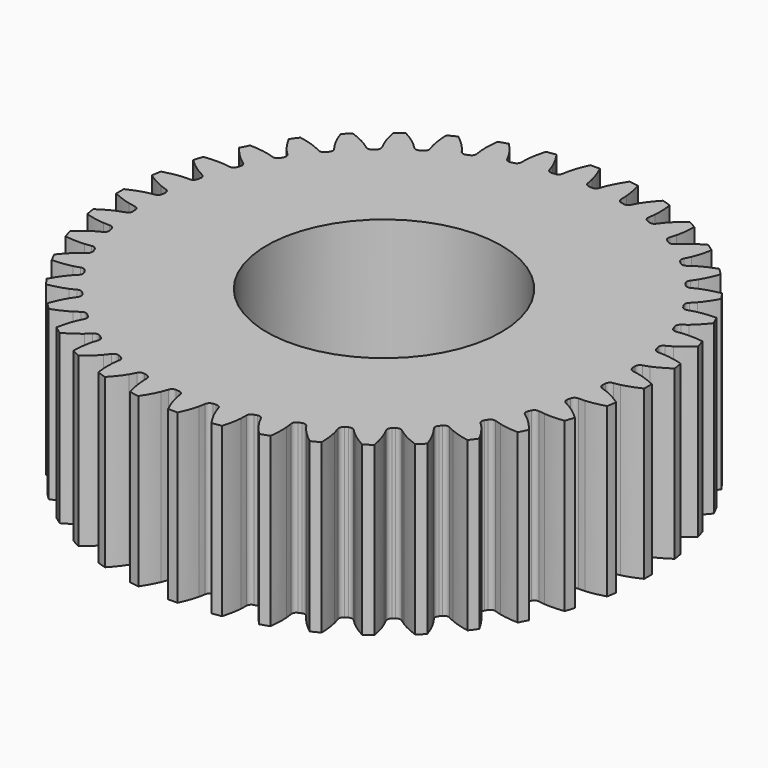
from build123d import *

# Parameters (mm, degrees)
CYLINDER001_R     = 7
CYLINDER001_DEPTH = 10
PAD003_DEPTH      = 10


with BuildPart() as cylinder001:
    # Cylinder001 → Cylinder001 (new body)
    with BuildSketch(Plane.XY):
        Circle(CYLINDER001_R)
    extrude(amount=CYLINDER001_DEPTH)


with BuildPart() as cut002:
    # InvoluteGear002 → Pad003 (new body)
    with BuildSketch(Plane.XY):
        with BuildLine():
            add(Edge.make_bspline(
                [(14.281854, -0.750733), (14.376877, -0.739514), (14.50388, -0.718819), (14.661323, -0.680954)],
                knots=[0, 0, 0, 0, 1, 1, 1, 1], degree=3))
            add(Edge.make_bspline(
                [(14.661323, -0.680954), (14.937858, -0.61437), (15.305187, -0.495667), (15.747806, -0.285087)],
                knots=[0, 0, 0, 0, 1, 1, 1, 1], degree=3))
            ThreePointArc((15.747806, -0.285087), (15.750193, 7.5e-05), (15.747417, 0.285234))
            add(Edge.make_bspline(
                [(15.747417, 0.285234), (15.305187, 0.495667), (14.937858, 0.61437), (14.661323, 0.680954)],
                knots=[0, 0, 0, 0, 1, 1, 1, 1], degree=3))
            add(Edge.make_bspline(
                [(14.661323, 0.680954), (14.50388, 0.718819), (14.376877, 0.739514), (14.281897, 0.750726)],
                knots=[0, 0, 0, 0, 1, 1, 1, 1], degree=3))
            ThreePointArc((14.281897, 0.750726), (14.105779, 0.8357), (14.025881, 1.014179))
            ThreePointArc((14.025881, 1.014179), (14.01915, 1.103331), (14.011852, 1.192438))
            ThreePointArc((14.011852, 1.192438), (14.062835, 1.381199), (14.223462, 1.492684))
            add(Edge.make_bspline(
                [(14.223462, 1.492684), (14.315559, 1.51863), (14.437761, 1.558938), (14.587343, 1.620966)],
                knots=[0, 0, 0, 0, 1, 1, 1, 1], degree=3))
            add(Edge.make_bspline(
                [(14.587343, 1.620966), (14.850056, 1.72999), (15.194294, 1.904694), (15.598521, 2.181922)],
                knots=[0, 0, 0, 0, 1, 1, 1, 1], degree=3))
            ThreePointArc((15.598521, 2.181922), (15.55627, 2.463947), (15.50892, 2.745161))
            add(Edge.make_bspline(
                [(15.50892, 2.745161), (15.039215, 2.883823), (14.657839, 2.943602), (14.374293, 2.966107)],
                knots=[0, 0, 0, 0, 1, 1, 1, 1], degree=3))
            add(Edge.make_bspline(
                [(14.374293, 2.966107), (14.212865, 2.978875), (14.084188, 2.979448), (13.988624, 2.975664)],
                knots=[0, 0, 0, 0, 1, 1, 1, 1], degree=3))
            ThreePointArc((13.988624, 2.975664), (13.801381, 3.032041), (13.694547, 3.195824))
            ThreePointArc((13.694547, 3.195824), (13.673952, 3.282825), (13.652804, 3.369694))
            ThreePointArc((13.652804, 3.369694), (13.673631, 3.564106), (13.81484, 3.699346))
            add(Edge.make_bspline(
                [(13.81484, 3.699346), (13.901745, 3.73938), (14.016137, 3.798308), (14.154173, 3.882972)],
                knots=[0, 0, 0, 0, 1, 1, 1, 1], degree=3))
            add(Edge.make_bspline(
                [(14.154173, 3.882972), (14.396598, 4.031751), (14.709267, 4.258155), (15.06515, 4.595206)],
                knots=[0, 0, 0, 0, 1, 1, 1, 1], degree=3))
            ThreePointArc((15.06515, 4.595206), (14.979301, 4.867149), (14.888542, 5.137493))
            add(Edge.make_bspline(
                [(14.888542, 5.137493), (14.402928, 5.20097), (14.016896, 5.200352), (13.73332, 5.178224)],
                knots=[0, 0, 0, 0, 1, 1, 1, 1], degree=3))
            add(Edge.make_bspline(
                [(13.73332, 5.178224), (13.571882, 5.165583), (13.4447, 5.146018), (13.350905, 5.127332)],
                knots=[0, 0, 0, 0, 1, 1, 1, 1], degree=3))
            ThreePointArc((13.350905, 5.127332), (13.157147, 5.153724), (13.026007, 5.298778))
            ThreePointArc((13.026007, 5.298778), (12.992056, 5.381486), (12.95758, 5.463976))
            ThreePointArc((12.95758, 5.463976), (12.947736, 5.659253), (13.066051, 5.814918))
            add(Edge.make_bspline(
                [(13.066051, 5.814918), (13.145623, 5.868054), (13.249389, 5.944152), (13.372481, 6.049367)],
                knots=[0, 0, 0, 0, 1, 1, 1, 1], degree=3))
            add(Edge.make_bspline(
                [(13.372481, 6.049367), (13.588647, 6.234238), (13.86205, 6.506767), (14.160824, 6.89534)],
                knots=[0, 0, 0, 0, 1, 1, 1, 1], degree=3))
            ThreePointArc((14.160824, 6.89534), (14.033491, 7.150505), (13.901558, 7.403323))
            add(Edge.make_bspline(
                [(13.901558, 7.403323), (13.411993, 7.390052), (13.03081, 7.329053), (12.754188, 7.262836)],
                knots=[0, 0, 0, 0, 1, 1, 1, 1], degree=3))
            add(Edge.make_bspline(
                [(12.754188, 7.262836), (12.596715, 7.225096), (12.474159, 7.185877), (12.384441, 7.152747)],
                knots=[0, 0, 0, 0, 1, 1, 1, 1], degree=3))
            ThreePointArc((12.384441, 7.152747), (12.188941, 7.148504), (12.036724, 7.271257))
            ThreePointArc((12.036724, 7.271257), (11.990252, 7.347636), (11.943296, 7.423718))
            ThreePointArc((11.943296, 7.423718), (11.903026, 7.615051), (11.995533, 7.787307))
            add(Edge.make_bspline(
                [(11.995533, 7.787307), (12.065813, 7.852237), (12.156396, 7.94363), (12.261514, 8.066806)],
                knots=[0, 0, 0, 0, 1, 1, 1, 1], degree=3))
            add(Edge.make_bspline(
                [(12.261514, 8.066806), (12.446098, 8.283217), (12.673502, 8.59516), (12.907812, 9.025688)],
                knots=[0, 0, 0, 0, 1, 1, 1, 1], degree=3))
            ThreePointArc((12.907812, 9.025688), (12.74213, 9.257792), (12.572272, 9.486858))
            add(Edge.make_bspline(
                [(12.572272, 9.486858), (12.09081, 9.397166), (11.723863, 9.277288), (11.461005, 9.168613)],
                knots=[0, 0, 0, 0, 1, 1, 1, 1], degree=3))
            add(Edge.make_bspline(
                [(11.461005, 9.168613), (11.311374, 9.106703), (11.196463, 9.048795), (11.113032, 9.002038)],
                knots=[0, 0, 0, 0, 1, 1, 1, 1], degree=3))
            ThreePointArc((11.113032, 9.002038), (10.920603, 8.967265), (10.751057, 9.064694))
            ThreePointArc((10.751057, 9.064694), (10.693209, 9.132863), (10.634929, 9.200663))
            ThreePointArc((10.634929, 9.200663), (10.565224, 9.38334), (10.629645, 9.567948))
            add(Edge.make_bspline(
                [(10.629645, 9.567948), (10.688902, 9.643072), (10.764073, 9.74751), (10.848628, 9.885614)],
                knots=[0, 0, 0, 0, 1, 1, 1, 1], degree=3))
            add(Edge.make_bspline(
                [(10.848628, 9.885614), (10.997086, 10.128235), (11.172891, 10.471912), (11.336967, 10.933793)],
                knots=[0, 0, 0, 0, 1, 1, 1, 1], degree=3))
            ThreePointArc((11.336967, 10.933793), (11.137015, 11.137121), (10.933415, 11.336796))
            add(Edge.make_bspline(
                [(10.933415, 11.336796), (10.471912, 11.172891), (10.128235, 10.997086), (9.885614, 10.848628)],
                knots=[0, 0, 0, 0, 1, 1, 1, 1], degree=3))
            add(Edge.make_bspline(
                [(9.885614, 10.848628), (9.74751, 10.764073), (9.643072, 10.688902), (9.567983, 10.62967)],
                knots=[0, 0, 0, 0, 1, 1, 1, 1], degree=3))
            ThreePointArc((9.567983, 10.62967), (9.383363, 10.565221), (9.200663, 10.634929))
            ThreePointArc((9.200663, 10.634929), (9.132863, 10.693209), (9.064694, 10.751057))
            ThreePointArc((9.064694, 10.751057), (8.96727, 10.920581), (9.002019, 11.112993))
            add(Edge.make_bspline(
                [(9.002019, 11.112993), (9.048795, 11.196463), (9.106703, 11.311374), (9.168613, 11.461005)],
                knots=[0, 0, 0, 0, 1, 1, 1, 1], degree=3))
            add(Edge.make_bspline(
                [(9.168613, 11.461005), (9.277288, 11.723863), (9.397166, 12.09081), (9.486968, 12.572672)],
                knots=[0, 0, 0, 0, 1, 1, 1, 1], degree=3))
            ThreePointArc((9.486968, 12.572672), (9.25767, 12.742218), (9.025341, 12.907584))
            add(Edge.make_bspline(
                [(9.025341, 12.907584), (8.59516, 12.673502), (8.283217, 12.446098), (8.066806, 12.261514)],
                knots=[0, 0, 0, 0, 1, 1, 1, 1], degree=3))
            add(Edge.make_bspline(
                [(8.066806, 12.261514), (7.94363, 12.156396), (7.852237, 12.065813), (7.787339, 11.995563)],
                knots=[0, 0, 0, 0, 1, 1, 1, 1], degree=3))
            ThreePointArc((7.787339, 11.995563), (7.615073, 11.903027), (7.423718, 11.943296))
            ThreePointArc((7.423718, 11.943296), (7.347636, 11.990252), (7.271257, 12.036724))
            ThreePointArc((7.271257, 12.036724), (7.148513, 12.188921), (7.152734, 12.3844))
            add(Edge.make_bspline(
                [(7.152734, 12.3844), (7.185877, 12.474159), (7.225096, 12.596715), (7.262836, 12.754188)],
                knots=[0, 0, 0, 0, 1, 1, 1, 1], degree=3))
            add(Edge.make_bspline(
                [(7.262836, 12.754188), (7.329053, 13.03081), (7.390052, 13.411993), (7.403369, 13.901971)],
                knots=[0, 0, 0, 0, 1, 1, 1, 1], degree=3))
            ThreePointArc((7.403369, 13.901971), (7.150371, 14.033559), (6.895033, 14.160545))
            add(Edge.make_bspline(
                [(6.895033, 14.160545), (6.506767, 13.86205), (6.234238, 13.588647), (6.049367, 13.372481)],
                knots=[0, 0, 0, 0, 1, 1, 1, 1], degree=3))
            add(Edge.make_bspline(
                [(6.049367, 13.372481), (5.944152, 13.249389), (5.868054, 13.145623), (5.814944, 13.066086)],
                knots=[0, 0, 0, 0, 1, 1, 1, 1], degree=3))
            ThreePointArc((5.814944, 13.066086), (5.659275, 12.947741), (5.463976, 12.95758))
            ThreePointArc((5.463976, 12.95758), (5.381486, 12.992056), (5.298778, 13.026007))
            ThreePointArc((5.298778, 13.026007), (5.153736, 13.157129), (5.127326, 13.350861))
            add(Edge.make_bspline(
                [(5.127326, 13.350861), (5.146018, 13.4447), (5.165583, 13.571882), (5.178224, 13.73332)],
                knots=[0, 0, 0, 0, 1, 1, 1, 1], degree=3))
            add(Edge.make_bspline(
                [(5.178224, 13.73332), (5.200352, 14.016896), (5.20097, 14.402928), (5.137474, 14.888956)],
                knots=[0, 0, 0, 0, 1, 1, 1, 1], degree=3))
            ThreePointArc((5.137474, 14.888956), (4.867006, 14.979347), (4.594946, 15.064826))
            add(Edge.make_bspline(
                [(4.594946, 15.064826), (4.258155, 14.709267), (4.031751, 14.396598), (3.882972, 14.154173)],
                knots=[0, 0, 0, 0, 1, 1, 1, 1], degree=3))
            add(Edge.make_bspline(
                [(3.882972, 14.154173), (3.798308, 14.016137), (3.73938, 13.901745), (3.699366, 13.814879)],
                knots=[0, 0, 0, 0, 1, 1, 1, 1], degree=3))
            ThreePointArc((3.699366, 13.814879), (3.564127, 13.673639), (3.369694, 13.652804))
            ThreePointArc((3.369694, 13.652804), (3.282825, 13.673952), (3.195824, 13.694547))
            ThreePointArc((3.195824, 13.694547), (3.032057, 13.801364), (2.975665, 13.988581))
            add(Edge.make_bspline(
                [(2.975665, 13.988581), (2.979448, 14.084188), (2.978875, 14.212865), (2.966107, 14.374293)],
                knots=[0, 0, 0, 0, 1, 1, 1, 1], degree=3))
            add(Edge.make_bspline(
                [(2.966107, 14.374293), (2.943602, 14.657839), (2.883823, 15.039215), (2.745077, 15.509327)],
                knots=[0, 0, 0, 0, 1, 1, 1, 1], degree=3))
            ThreePointArc((2.745077, 15.509327), (2.463799, 15.556294), (2.181717, 15.598161))
            add(Edge.make_bspline(
                [(2.181717, 15.598161), (1.904694, 15.194294), (1.72999, 14.850056), (1.620966, 14.587343)],
                knots=[0, 0, 0, 0, 1, 1, 1, 1], degree=3))
            add(Edge.make_bspline(
                [(1.620966, 14.587343), (1.558938, 14.437761), (1.51863, 14.315559), (1.492698, 14.223503)],
                knots=[0, 0, 0, 0, 1, 1, 1, 1], degree=3))
            ThreePointArc((1.492698, 14.223503), (1.381219, 14.062846), (1.192438, 14.011852))
            ThreePointArc((1.192438, 14.011852), (1.103331, 14.01915), (1.014179, 14.025881))
            ThreePointArc((1.014179, 14.025881), (0.835718, 14.105765), (0.750733, 14.281854))
            add(Edge.make_bspline(
                [(0.750733, 14.281854), (0.739514, 14.376877), (0.718819, 14.50388), (0.680954, 14.661323)],
                knots=[0, 0, 0, 0, 1, 1, 1, 1], degree=3))
            add(Edge.make_bspline(
                [(0.680954, 14.661323), (0.61437, 14.937858), (0.495667, 15.305187), (0.285087, 15.747806)],
                knots=[0, 0, 0, 0, 1, 1, 1, 1], degree=3))
            ThreePointArc((0.285087, 15.747806), (-7.5e-05, 15.750193), (-0.285234, 15.747417))
            add(Edge.make_bspline(
                [(-0.285234, 15.747417), (-0.495667, 15.305187), (-0.61437, 14.937858), (-0.680954, 14.661323)],
                knots=[0, 0, 0, 0, 1, 1, 1, 1], degree=3))
            add(Edge.make_bspline(
                [(-0.680954, 14.661323), (-0.718819, 14.50388), (-0.739514, 14.376877), (-0.750726, 14.281897)],
                knots=[0, 0, 0, 0, 1, 1, 1, 1], degree=3))
            ThreePointArc((-0.750726, 14.281897), (-0.8357, 14.105779), (-1.014179, 14.025881))
            ThreePointArc((-1.014179, 14.025881), (-1.103331, 14.01915), (-1.192438, 14.011852))
            ThreePointArc((-1.192438, 14.011852), (-1.381199, 14.062835), (-1.492684, 14.223462))
            add(Edge.make_bspline(
                [(-1.492684, 14.223462), (-1.51863, 14.315559), (-1.558938, 14.437761), (-1.620966, 14.587343)],
                knots=[0, 0, 0, 0, 1, 1, 1, 1], degree=3))
            add(Edge.make_bspline(
                [(-1.620966, 14.587343), (-1.72999, 14.850056), (-1.904694, 15.194294), (-2.181922, 15.598521)],
                knots=[0, 0, 0, 0, 1, 1, 1, 1], degree=3))
            ThreePointArc((-2.181922, 15.598521), (-2.463947, 15.55627), (-2.745161, 15.50892))
            add(Edge.make_bspline(
                [(-2.745161, 15.50892), (-2.883823, 15.039215), (-2.943602, 14.657839), (-2.966107, 14.374293)],
                knots=[0, 0, 0, 0, 1, 1, 1, 1], degree=3))
            add(Edge.make_bspline(
                [(-2.966107, 14.374293), (-2.978875, 14.212865), (-2.979448, 14.084188), (-2.975664, 13.988624)],
                knots=[0, 0, 0, 0, 1, 1, 1, 1], degree=3))
            ThreePointArc((-2.975664, 13.988624), (-3.032041, 13.801381), (-3.195824, 13.694547))
            ThreePointArc((-3.195824, 13.694547), (-3.282825, 13.673952), (-3.369694, 13.652804))
            ThreePointArc((-3.369694, 13.652804), (-3.564106, 13.673631), (-3.699346, 13.81484))
            add(Edge.make_bspline(
                [(-3.699346, 13.81484), (-3.73938, 13.901745), (-3.798308, 14.016137), (-3.882972, 14.154173)],
                knots=[0, 0, 0, 0, 1, 1, 1, 1], degree=3))
            add(Edge.make_bspline(
                [(-3.882972, 14.154173), (-4.031751, 14.396598), (-4.258155, 14.709267), (-4.595206, 15.06515)],
                knots=[0, 0, 0, 0, 1, 1, 1, 1], degree=3))
            ThreePointArc((-4.595206, 15.06515), (-4.867149, 14.979301), (-5.137493, 14.888542))
            add(Edge.make_bspline(
                [(-5.137493, 14.888542), (-5.20097, 14.402928), (-5.200352, 14.016896), (-5.178224, 13.73332)],
                knots=[0, 0, 0, 0, 1, 1, 1, 1], degree=3))
            add(Edge.make_bspline(
                [(-5.178224, 13.73332), (-5.165583, 13.571882), (-5.146018, 13.4447), (-5.127332, 13.350905)],
                knots=[0, 0, 0, 0, 1, 1, 1, 1], degree=3))
            ThreePointArc((-5.127332, 13.350905), (-5.153724, 13.157147), (-5.298778, 13.026007))
            ThreePointArc((-5.298778, 13.026007), (-5.381486, 12.992056), (-5.463976, 12.95758))
            ThreePointArc((-5.463976, 12.95758), (-5.659253, 12.947736), (-5.814918, 13.066051))
            add(Edge.make_bspline(
                [(-5.814918, 13.066051), (-5.868054, 13.145623), (-5.944152, 13.249389), (-6.049367, 13.372481)],
                knots=[0, 0, 0, 0, 1, 1, 1, 1], degree=3))
            add(Edge.make_bspline(
                [(-6.049367, 13.372481), (-6.234238, 13.588647), (-6.506767, 13.86205), (-6.89534, 14.160824)],
                knots=[0, 0, 0, 0, 1, 1, 1, 1], degree=3))
            ThreePointArc((-6.89534, 14.160824), (-7.150505, 14.033491), (-7.403323, 13.901558))
            add(Edge.make_bspline(
                [(-7.403323, 13.901558), (-7.390052, 13.411993), (-7.329053, 13.03081), (-7.262836, 12.754188)],
                knots=[0, 0, 0, 0, 1, 1, 1, 1], degree=3))
            add(Edge.make_bspline(
                [(-7.262836, 12.754188), (-7.225096, 12.596715), (-7.185877, 12.474159), (-7.152747, 12.384441)],
                knots=[0, 0, 0, 0, 1, 1, 1, 1], degree=3))
            ThreePointArc((-7.152747, 12.384441), (-7.148504, 12.188941), (-7.271257, 12.036724))
            ThreePointArc((-7.271257, 12.036724), (-7.347636, 11.990252), (-7.423718, 11.943296))
            ThreePointArc((-7.423718, 11.943296), (-7.615051, 11.903026), (-7.787307, 11.995533))
            add(Edge.make_bspline(
                [(-7.787307, 11.995533), (-7.852237, 12.065813), (-7.94363, 12.156396), (-8.066806, 12.261514)],
                knots=[0, 0, 0, 0, 1, 1, 1, 1], degree=3))
            add(Edge.make_bspline(
                [(-8.066806, 12.261514), (-8.283217, 12.446098), (-8.59516, 12.673502), (-9.025688, 12.907812)],
                knots=[0, 0, 0, 0, 1, 1, 1, 1], degree=3))
            ThreePointArc((-9.025688, 12.907812), (-9.257792, 12.74213), (-9.486858, 12.572272))
            add(Edge.make_bspline(
                [(-9.486858, 12.572272), (-9.397166, 12.09081), (-9.277288, 11.723863), (-9.168613, 11.461005)],
                knots=[0, 0, 0, 0, 1, 1, 1, 1], degree=3))
            add(Edge.make_bspline(
                [(-9.168613, 11.461005), (-9.106703, 11.311374), (-9.048795, 11.196463), (-9.002038, 11.113032)],
                knots=[0, 0, 0, 0, 1, 1, 1, 1], degree=3))
            ThreePointArc((-9.002038, 11.113032), (-8.967265, 10.920603), (-9.064694, 10.751057))
            ThreePointArc((-9.064694, 10.751057), (-9.132863, 10.693209), (-9.200663, 10.634929))
            ThreePointArc((-9.200663, 10.634929), (-9.38334, 10.565224), (-9.567948, 10.629645))
            add(Edge.make_bspline(
                [(-9.567948, 10.629645), (-9.643072, 10.688902), (-9.74751, 10.764073), (-9.885614, 10.848628)],
                knots=[0, 0, 0, 0, 1, 1, 1, 1], degree=3))
            add(Edge.make_bspline(
                [(-9.885614, 10.848628), (-10.128235, 10.997086), (-10.471912, 11.172891), (-10.933793, 11.336967)],
                knots=[0, 0, 0, 0, 1, 1, 1, 1], degree=3))
            ThreePointArc((-10.933793, 11.336967), (-11.137121, 11.137015), (-11.336796, 10.933415))
            add(Edge.make_bspline(
                [(-11.336796, 10.933415), (-11.172891, 10.471912), (-10.997086, 10.128235), (-10.848628, 9.885614)],
                knots=[0, 0, 0, 0, 1, 1, 1, 1], degree=3))
            add(Edge.make_bspline(
                [(-10.848628, 9.885614), (-10.764073, 9.74751), (-10.688902, 9.643072), (-10.62967, 9.567983)],
                knots=[0, 0, 0, 0, 1, 1, 1, 1], degree=3))
            ThreePointArc((-10.62967, 9.567983), (-10.565221, 9.383363), (-10.634929, 9.200663))
            ThreePointArc((-10.634929, 9.200663), (-10.693209, 9.132863), (-10.751057, 9.064694))
            ThreePointArc((-10.751057, 9.064694), (-10.920581, 8.96727), (-11.112993, 9.002019))
            add(Edge.make_bspline(
                [(-11.112993, 9.002019), (-11.196463, 9.048795), (-11.311374, 9.106703), (-11.461005, 9.168613)],
                knots=[0, 0, 0, 0, 1, 1, 1, 1], degree=3))
            add(Edge.make_bspline(
                [(-11.461005, 9.168613), (-11.723863, 9.277288), (-12.09081, 9.397166), (-12.572672, 9.486968)],
                knots=[0, 0, 0, 0, 1, 1, 1, 1], degree=3))
            ThreePointArc((-12.572672, 9.486968), (-12.742218, 9.25767), (-12.907584, 9.025341))
            add(Edge.make_bspline(
                [(-12.907584, 9.025341), (-12.673502, 8.59516), (-12.446098, 8.283217), (-12.261514, 8.066806)],
                knots=[0, 0, 0, 0, 1, 1, 1, 1], degree=3))
            add(Edge.make_bspline(
                [(-12.261514, 8.066806), (-12.156396, 7.94363), (-12.065813, 7.852237), (-11.995563, 7.787339)],
                knots=[0, 0, 0, 0, 1, 1, 1, 1], degree=3))
            ThreePointArc((-11.995563, 7.787339), (-11.903027, 7.615073), (-11.943296, 7.423718))
            ThreePointArc((-11.943296, 7.423718), (-11.990252, 7.347636), (-12.036724, 7.271257))
            ThreePointArc((-12.036724, 7.271257), (-12.188921, 7.148513), (-12.3844, 7.152734))
            add(Edge.make_bspline(
                [(-12.3844, 7.152734), (-12.474159, 7.185877), (-12.596715, 7.225096), (-12.754188, 7.262836)],
                knots=[0, 0, 0, 0, 1, 1, 1, 1], degree=3))
            add(Edge.make_bspline(
                [(-12.754188, 7.262836), (-13.03081, 7.329053), (-13.411993, 7.390052), (-13.901971, 7.403369)],
                knots=[0, 0, 0, 0, 1, 1, 1, 1], degree=3))
            ThreePointArc((-13.901971, 7.403369), (-14.033559, 7.150371), (-14.160545, 6.895033))
            add(Edge.make_bspline(
                [(-14.160545, 6.895033), (-13.86205, 6.506767), (-13.588647, 6.234238), (-13.372481, 6.049367)],
                knots=[0, 0, 0, 0, 1, 1, 1, 1], degree=3))
            add(Edge.make_bspline(
                [(-13.372481, 6.049367), (-13.249389, 5.944152), (-13.145623, 5.868054), (-13.066086, 5.814944)],
                knots=[0, 0, 0, 0, 1, 1, 1, 1], degree=3))
            ThreePointArc((-13.066086, 5.814944), (-12.947741, 5.659275), (-12.95758, 5.463976))
            ThreePointArc((-12.95758, 5.463976), (-12.992056, 5.381486), (-13.026007, 5.298778))
            ThreePointArc((-13.026007, 5.298778), (-13.157129, 5.153736), (-13.350861, 5.127326))
            add(Edge.make_bspline(
                [(-13.350861, 5.127326), (-13.4447, 5.146018), (-13.571882, 5.165583), (-13.73332, 5.178224)],
                knots=[0, 0, 0, 0, 1, 1, 1, 1], degree=3))
            add(Edge.make_bspline(
                [(-13.73332, 5.178224), (-14.016896, 5.200352), (-14.402928, 5.20097), (-14.888956, 5.137474)],
                knots=[0, 0, 0, 0, 1, 1, 1, 1], degree=3))
            ThreePointArc((-14.888956, 5.137474), (-14.979347, 4.867006), (-15.064826, 4.594946))
            add(Edge.make_bspline(
                [(-15.064826, 4.594946), (-14.709267, 4.258155), (-14.396598, 4.031751), (-14.154173, 3.882972)],
                knots=[0, 0, 0, 0, 1, 1, 1, 1], degree=3))
            add(Edge.make_bspline(
                [(-14.154173, 3.882972), (-14.016137, 3.798308), (-13.901745, 3.73938), (-13.814879, 3.699366)],
                knots=[0, 0, 0, 0, 1, 1, 1, 1], degree=3))
            ThreePointArc((-13.814879, 3.699366), (-13.673639, 3.564127), (-13.652804, 3.369694))
            ThreePointArc((-13.652804, 3.369694), (-13.673952, 3.282825), (-13.694547, 3.195824))
            ThreePointArc((-13.694547, 3.195824), (-13.801364, 3.032057), (-13.988581, 2.975665))
            add(Edge.make_bspline(
                [(-13.988581, 2.975665), (-14.084188, 2.979448), (-14.212865, 2.978875), (-14.374293, 2.966107)],
                knots=[0, 0, 0, 0, 1, 1, 1, 1], degree=3))
            add(Edge.make_bspline(
                [(-14.374293, 2.966107), (-14.657839, 2.943602), (-15.039215, 2.883823), (-15.509327, 2.745077)],
                knots=[0, 0, 0, 0, 1, 1, 1, 1], degree=3))
            ThreePointArc((-15.509327, 2.745077), (-15.556294, 2.463799), (-15.598161, 2.181717))
            add(Edge.make_bspline(
                [(-15.598161, 2.181717), (-15.194294, 1.904694), (-14.850056, 1.72999), (-14.587343, 1.620966)],
                knots=[0, 0, 0, 0, 1, 1, 1, 1], degree=3))
            add(Edge.make_bspline(
                [(-14.587343, 1.620966), (-14.437761, 1.558938), (-14.315559, 1.51863), (-14.223503, 1.492698)],
                knots=[0, 0, 0, 0, 1, 1, 1, 1], degree=3))
            ThreePointArc((-14.223503, 1.492698), (-14.062846, 1.381219), (-14.011852, 1.192438))
            ThreePointArc((-14.011852, 1.192438), (-14.01915, 1.103331), (-14.025881, 1.014179))
            ThreePointArc((-14.025881, 1.014179), (-14.105765, 0.835718), (-14.281854, 0.750733))
            add(Edge.make_bspline(
                [(-14.281854, 0.750733), (-14.376877, 0.739514), (-14.50388, 0.718819), (-14.661323, 0.680954)],
                knots=[0, 0, 0, 0, 1, 1, 1, 1], degree=3))
            add(Edge.make_bspline(
                [(-14.661323, 0.680954), (-14.937858, 0.61437), (-15.305187, 0.495667), (-15.747806, 0.285087)],
                knots=[0, 0, 0, 0, 1, 1, 1, 1], degree=3))
            ThreePointArc((-15.747806, 0.285087), (-15.750193, -7.5e-05), (-15.747417, -0.285234))
            add(Edge.make_bspline(
                [(-15.747417, -0.285234), (-15.305187, -0.495667), (-14.937858, -0.61437), (-14.661323, -0.680954)],
                knots=[0, 0, 0, 0, 1, 1, 1, 1], degree=3))
            add(Edge.make_bspline(
                [(-14.661323, -0.680954), (-14.50388, -0.718819), (-14.376877, -0.739514), (-14.281897, -0.750726)],
                knots=[0, 0, 0, 0, 1, 1, 1, 1], degree=3))
            ThreePointArc((-14.281897, -0.750726), (-14.105779, -0.8357), (-14.025881, -1.014179))
            ThreePointArc((-14.025881, -1.014179), (-14.01915, -1.103331), (-14.011852, -1.192438))
            ThreePointArc((-14.011852, -1.192438), (-14.062835, -1.381199), (-14.223462, -1.492684))
            add(Edge.make_bspline(
                [(-14.223462, -1.492684), (-14.315559, -1.51863), (-14.437761, -1.558938), (-14.587343, -1.620966)],
                knots=[0, 0, 0, 0, 1, 1, 1, 1], degree=3))
            add(Edge.make_bspline(
                [(-14.587343, -1.620966), (-14.850056, -1.72999), (-15.194294, -1.904694), (-15.598521, -2.181922)],
                knots=[0, 0, 0, 0, 1, 1, 1, 1], degree=3))
            ThreePointArc((-15.598521, -2.181922), (-15.55627, -2.463947), (-15.50892, -2.745161))
            add(Edge.make_bspline(
                [(-15.50892, -2.745161), (-15.039215, -2.883823), (-14.657839, -2.943602), (-14.374293, -2.966107)],
                knots=[0, 0, 0, 0, 1, 1, 1, 1], degree=3))
            add(Edge.make_bspline(
                [(-14.374293, -2.966107), (-14.212865, -2.978875), (-14.084188, -2.979448), (-13.988624, -2.975664)],
                knots=[0, 0, 0, 0, 1, 1, 1, 1], degree=3))
            ThreePointArc((-13.988624, -2.975664), (-13.801381, -3.032041), (-13.694547, -3.195824))
            ThreePointArc((-13.694547, -3.195824), (-13.673952, -3.282825), (-13.652804, -3.369694))
            ThreePointArc((-13.652804, -3.369694), (-13.673631, -3.564106), (-13.81484, -3.699346))
            add(Edge.make_bspline(
                [(-13.81484, -3.699346), (-13.901745, -3.73938), (-14.016137, -3.798308), (-14.154173, -3.882972)],
                knots=[0, 0, 0, 0, 1, 1, 1, 1], degree=3))
            add(Edge.make_bspline(
                [(-14.154173, -3.882972), (-14.396598, -4.031751), (-14.709267, -4.258155), (-15.06515, -4.595206)],
                knots=[0, 0, 0, 0, 1, 1, 1, 1], degree=3))
            ThreePointArc((-15.06515, -4.595206), (-14.979301, -4.867149), (-14.888542, -5.137493))
            add(Edge.make_bspline(
                [(-14.888542, -5.137493), (-14.402928, -5.20097), (-14.016896, -5.200352), (-13.73332, -5.178224)],
                knots=[0, 0, 0, 0, 1, 1, 1, 1], degree=3))
            add(Edge.make_bspline(
                [(-13.73332, -5.178224), (-13.571882, -5.165583), (-13.4447, -5.146018), (-13.350905, -5.127332)],
                knots=[0, 0, 0, 0, 1, 1, 1, 1], degree=3))
            ThreePointArc((-13.350905, -5.127332), (-13.157147, -5.153724), (-13.026007, -5.298778))
            ThreePointArc((-13.026007, -5.298778), (-12.992056, -5.381486), (-12.95758, -5.463976))
            ThreePointArc((-12.95758, -5.463976), (-12.947736, -5.659253), (-13.066051, -5.814918))
            add(Edge.make_bspline(
                [(-13.066051, -5.814918), (-13.145623, -5.868054), (-13.249389, -5.944152), (-13.372481, -6.049367)],
                knots=[0, 0, 0, 0, 1, 1, 1, 1], degree=3))
            add(Edge.make_bspline(
                [(-13.372481, -6.049367), (-13.588647, -6.234238), (-13.86205, -6.506767), (-14.160824, -6.89534)],
                knots=[0, 0, 0, 0, 1, 1, 1, 1], degree=3))
            ThreePointArc((-14.160824, -6.89534), (-14.033491, -7.150505), (-13.901558, -7.403323))
            add(Edge.make_bspline(
                [(-13.901558, -7.403323), (-13.411993, -7.390052), (-13.03081, -7.329053), (-12.754188, -7.262836)],
                knots=[0, 0, 0, 0, 1, 1, 1, 1], degree=3))
            add(Edge.make_bspline(
                [(-12.754188, -7.262836), (-12.596715, -7.225096), (-12.474159, -7.185877), (-12.384441, -7.152747)],
                knots=[0, 0, 0, 0, 1, 1, 1, 1], degree=3))
            ThreePointArc((-12.384441, -7.152747), (-12.188941, -7.148504), (-12.036724, -7.271257))
            ThreePointArc((-12.036724, -7.271257), (-11.990252, -7.347636), (-11.943296, -7.423718))
            ThreePointArc((-11.943296, -7.423718), (-11.903026, -7.615051), (-11.995533, -7.787307))
            add(Edge.make_bspline(
                [(-11.995533, -7.787307), (-12.065813, -7.852237), (-12.156396, -7.94363), (-12.261514, -8.066806)],
                knots=[0, 0, 0, 0, 1, 1, 1, 1], degree=3))
            add(Edge.make_bspline(
                [(-12.261514, -8.066806), (-12.446098, -8.283217), (-12.673502, -8.59516), (-12.907812, -9.025688)],
                knots=[0, 0, 0, 0, 1, 1, 1, 1], degree=3))
            ThreePointArc((-12.907812, -9.025688), (-12.74213, -9.257792), (-12.572272, -9.486858))
            add(Edge.make_bspline(
                [(-12.572272, -9.486858), (-12.09081, -9.397166), (-11.723863, -9.277288), (-11.461005, -9.168613)],
                knots=[0, 0, 0, 0, 1, 1, 1, 1], degree=3))
            add(Edge.make_bspline(
                [(-11.461005, -9.168613), (-11.311374, -9.106703), (-11.196463, -9.048795), (-11.113032, -9.002038)],
                knots=[0, 0, 0, 0, 1, 1, 1, 1], degree=3))
            ThreePointArc((-11.113032, -9.002038), (-10.920603, -8.967265), (-10.751057, -9.064694))
            ThreePointArc((-10.751057, -9.064694), (-10.693209, -9.132863), (-10.634929, -9.200663))
            ThreePointArc((-10.634929, -9.200663), (-10.565224, -9.38334), (-10.629645, -9.567948))
            add(Edge.make_bspline(
                [(-10.629645, -9.567948), (-10.688902, -9.643072), (-10.764073, -9.74751), (-10.848628, -9.885614)],
                knots=[0, 0, 0, 0, 1, 1, 1, 1], degree=3))
            add(Edge.make_bspline(
                [(-10.848628, -9.885614), (-10.997086, -10.128235), (-11.172891, -10.471912), (-11.336967, -10.933793)],
                knots=[0, 0, 0, 0, 1, 1, 1, 1], degree=3))
            ThreePointArc((-11.336967, -10.933793), (-11.137015, -11.137121), (-10.933415, -11.336796))
            add(Edge.make_bspline(
                [(-10.933415, -11.336796), (-10.471912, -11.172891), (-10.128235, -10.997086), (-9.885614, -10.848628)],
                knots=[0, 0, 0, 0, 1, 1, 1, 1], degree=3))
            add(Edge.make_bspline(
                [(-9.885614, -10.848628), (-9.74751, -10.764073), (-9.643072, -10.688902), (-9.567983, -10.62967)],
                knots=[0, 0, 0, 0, 1, 1, 1, 1], degree=3))
            ThreePointArc((-9.567983, -10.62967), (-9.383363, -10.565221), (-9.200663, -10.634929))
            ThreePointArc((-9.200663, -10.634929), (-9.132863, -10.693209), (-9.064694, -10.751057))
            ThreePointArc((-9.064694, -10.751057), (-8.96727, -10.920581), (-9.002019, -11.112993))
            add(Edge.make_bspline(
                [(-9.002019, -11.112993), (-9.048795, -11.196463), (-9.106703, -11.311374), (-9.168613, -11.461005)],
                knots=[0, 0, 0, 0, 1, 1, 1, 1], degree=3))
            add(Edge.make_bspline(
                [(-9.168613, -11.461005), (-9.277288, -11.723863), (-9.397166, -12.09081), (-9.486968, -12.572672)],
                knots=[0, 0, 0, 0, 1, 1, 1, 1], degree=3))
            ThreePointArc((-9.486968, -12.572672), (-9.25767, -12.742218), (-9.025341, -12.907584))
            add(Edge.make_bspline(
                [(-9.025341, -12.907584), (-8.59516, -12.673502), (-8.283217, -12.446098), (-8.066806, -12.261514)],
                knots=[0, 0, 0, 0, 1, 1, 1, 1], degree=3))
            add(Edge.make_bspline(
                [(-8.066806, -12.261514), (-7.94363, -12.156396), (-7.852237, -12.065813), (-7.787339, -11.995563)],
                knots=[0, 0, 0, 0, 1, 1, 1, 1], degree=3))
            ThreePointArc((-7.787339, -11.995563), (-7.615073, -11.903027), (-7.423718, -11.943296))
            ThreePointArc((-7.423718, -11.943296), (-7.347636, -11.990252), (-7.271257, -12.036724))
            ThreePointArc((-7.271257, -12.036724), (-7.148513, -12.188921), (-7.152734, -12.3844))
            add(Edge.make_bspline(
                [(-7.152734, -12.3844), (-7.185877, -12.474159), (-7.225096, -12.596715), (-7.262836, -12.754188)],
                knots=[0, 0, 0, 0, 1, 1, 1, 1], degree=3))
            add(Edge.make_bspline(
                [(-7.262836, -12.754188), (-7.329053, -13.03081), (-7.390052, -13.411993), (-7.403369, -13.901971)],
                knots=[0, 0, 0, 0, 1, 1, 1, 1], degree=3))
            ThreePointArc((-7.403369, -13.901971), (-7.150371, -14.033559), (-6.895033, -14.160545))
            add(Edge.make_bspline(
                [(-6.895033, -14.160545), (-6.506767, -13.86205), (-6.234238, -13.588647), (-6.049367, -13.372481)],
                knots=[0, 0, 0, 0, 1, 1, 1, 1], degree=3))
            add(Edge.make_bspline(
                [(-6.049367, -13.372481), (-5.944152, -13.249389), (-5.868054, -13.145623), (-5.814944, -13.066086)],
                knots=[0, 0, 0, 0, 1, 1, 1, 1], degree=3))
            ThreePointArc((-5.814944, -13.066086), (-5.659275, -12.947741), (-5.463976, -12.95758))
            ThreePointArc((-5.463976, -12.95758), (-5.381486, -12.992056), (-5.298778, -13.026007))
            ThreePointArc((-5.298778, -13.026007), (-5.153736, -13.157129), (-5.127326, -13.350861))
            add(Edge.make_bspline(
                [(-5.127326, -13.350861), (-5.146018, -13.4447), (-5.165583, -13.571882), (-5.178224, -13.73332)],
                knots=[0, 0, 0, 0, 1, 1, 1, 1], degree=3))
            add(Edge.make_bspline(
                [(-5.178224, -13.73332), (-5.200352, -14.016896), (-5.20097, -14.402928), (-5.137474, -14.888956)],
                knots=[0, 0, 0, 0, 1, 1, 1, 1], degree=3))
            ThreePointArc((-5.137474, -14.888956), (-4.867006, -14.979347), (-4.594946, -15.064826))
            add(Edge.make_bspline(
                [(-4.594946, -15.064826), (-4.258155, -14.709267), (-4.031751, -14.396598), (-3.882972, -14.154173)],
                knots=[0, 0, 0, 0, 1, 1, 1, 1], degree=3))
            add(Edge.make_bspline(
                [(-3.882972, -14.154173), (-3.798308, -14.016137), (-3.73938, -13.901745), (-3.699366, -13.814879)],
                knots=[0, 0, 0, 0, 1, 1, 1, 1], degree=3))
            ThreePointArc((-3.699366, -13.814879), (-3.564127, -13.673639), (-3.369694, -13.652804))
            ThreePointArc((-3.369694, -13.652804), (-3.282825, -13.673952), (-3.195824, -13.694547))
            ThreePointArc((-3.195824, -13.694547), (-3.032057, -13.801364), (-2.975665, -13.988581))
            add(Edge.make_bspline(
                [(-2.975665, -13.988581), (-2.979448, -14.084188), (-2.978875, -14.212865), (-2.966107, -14.374293)],
                knots=[0, 0, 0, 0, 1, 1, 1, 1], degree=3))
            add(Edge.make_bspline(
                [(-2.966107, -14.374293), (-2.943602, -14.657839), (-2.883823, -15.039215), (-2.745077, -15.509327)],
                knots=[0, 0, 0, 0, 1, 1, 1, 1], degree=3))
            ThreePointArc((-2.745077, -15.509327), (-2.463799, -15.556294), (-2.181717, -15.598161))
            add(Edge.make_bspline(
                [(-2.181717, -15.598161), (-1.904694, -15.194294), (-1.72999, -14.850056), (-1.620966, -14.587343)],
                knots=[0, 0, 0, 0, 1, 1, 1, 1], degree=3))
            add(Edge.make_bspline(
                [(-1.620966, -14.587343), (-1.558938, -14.437761), (-1.51863, -14.315559), (-1.492698, -14.223503)],
                knots=[0, 0, 0, 0, 1, 1, 1, 1], degree=3))
            ThreePointArc((-1.492698, -14.223503), (-1.381219, -14.062846), (-1.192438, -14.011852))
            ThreePointArc((-1.192438, -14.011852), (-1.103331, -14.01915), (-1.014179, -14.025881))
            ThreePointArc((-1.014179, -14.025881), (-0.835718, -14.105765), (-0.750733, -14.281854))
            add(Edge.make_bspline(
                [(-0.750733, -14.281854), (-0.739514, -14.376877), (-0.718819, -14.50388), (-0.680954, -14.661323)],
                knots=[0, 0, 0, 0, 1, 1, 1, 1], degree=3))
            add(Edge.make_bspline(
                [(-0.680954, -14.661323), (-0.61437, -14.937858), (-0.495667, -15.305187), (-0.285087, -15.747806)],
                knots=[0, 0, 0, 0, 1, 1, 1, 1], degree=3))
            ThreePointArc((-0.285087, -15.747806), (7.5e-05, -15.750193), (0.285234, -15.747417))
            add(Edge.make_bspline(
                [(0.285234, -15.747417), (0.495667, -15.305187), (0.61437, -14.937858), (0.680954, -14.661323)],
                knots=[0, 0, 0, 0, 1, 1, 1, 1], degree=3))
            add(Edge.make_bspline(
                [(0.680954, -14.661323), (0.718819, -14.50388), (0.739514, -14.376877), (0.750726, -14.281897)],
                knots=[0, 0, 0, 0, 1, 1, 1, 1], degree=3))
            ThreePointArc((0.750726, -14.281897), (0.8357, -14.105779), (1.014179, -14.025881))
            ThreePointArc((1.014179, -14.025881), (1.103331, -14.01915), (1.192438, -14.011852))
            ThreePointArc((1.192438, -14.011852), (1.381199, -14.062835), (1.492684, -14.223462))
            add(Edge.make_bspline(
                [(1.492684, -14.223462), (1.51863, -14.315559), (1.558938, -14.437761), (1.620966, -14.587343)],
                knots=[0, 0, 0, 0, 1, 1, 1, 1], degree=3))
            add(Edge.make_bspline(
                [(1.620966, -14.587343), (1.72999, -14.850056), (1.904694, -15.194294), (2.181922, -15.598521)],
                knots=[0, 0, 0, 0, 1, 1, 1, 1], degree=3))
            ThreePointArc((2.181922, -15.598521), (2.463947, -15.55627), (2.745161, -15.50892))
            add(Edge.make_bspline(
                [(2.745161, -15.50892), (2.883823, -15.039215), (2.943602, -14.657839), (2.966107, -14.374293)],
                knots=[0, 0, 0, 0, 1, 1, 1, 1], degree=3))
            add(Edge.make_bspline(
                [(2.966107, -14.374293), (2.978875, -14.212865), (2.979448, -14.084188), (2.975664, -13.988624)],
                knots=[0, 0, 0, 0, 1, 1, 1, 1], degree=3))
            ThreePointArc((2.975664, -13.988624), (3.032041, -13.801381), (3.195824, -13.694547))
            ThreePointArc((3.195824, -13.694547), (3.282825, -13.673952), (3.369694, -13.652804))
            ThreePointArc((3.369694, -13.652804), (3.564106, -13.673631), (3.699346, -13.81484))
            add(Edge.make_bspline(
                [(3.699346, -13.81484), (3.73938, -13.901745), (3.798308, -14.016137), (3.882972, -14.154173)],
                knots=[0, 0, 0, 0, 1, 1, 1, 1], degree=3))
            add(Edge.make_bspline(
                [(3.882972, -14.154173), (4.031751, -14.396598), (4.258155, -14.709267), (4.595206, -15.06515)],
                knots=[0, 0, 0, 0, 1, 1, 1, 1], degree=3))
            ThreePointArc((4.595206, -15.06515), (4.867149, -14.979301), (5.137493, -14.888542))
            add(Edge.make_bspline(
                [(5.137493, -14.888542), (5.20097, -14.402928), (5.200352, -14.016896), (5.178224, -13.73332)],
                knots=[0, 0, 0, 0, 1, 1, 1, 1], degree=3))
            add(Edge.make_bspline(
                [(5.178224, -13.73332), (5.165583, -13.571882), (5.146018, -13.4447), (5.127332, -13.350905)],
                knots=[0, 0, 0, 0, 1, 1, 1, 1], degree=3))
            ThreePointArc((5.127332, -13.350905), (5.153724, -13.157147), (5.298778, -13.026007))
            ThreePointArc((5.298778, -13.026007), (5.381486, -12.992056), (5.463976, -12.95758))
            ThreePointArc((5.463976, -12.95758), (5.659253, -12.947736), (5.814918, -13.066051))
            add(Edge.make_bspline(
                [(5.814918, -13.066051), (5.868054, -13.145623), (5.944152, -13.249389), (6.049367, -13.372481)],
                knots=[0, 0, 0, 0, 1, 1, 1, 1], degree=3))
            add(Edge.make_bspline(
                [(6.049367, -13.372481), (6.234238, -13.588647), (6.506767, -13.86205), (6.89534, -14.160824)],
                knots=[0, 0, 0, 0, 1, 1, 1, 1], degree=3))
            ThreePointArc((6.89534, -14.160824), (7.150505, -14.033491), (7.403323, -13.901558))
            add(Edge.make_bspline(
                [(7.403323, -13.901558), (7.390052, -13.411993), (7.329053, -13.03081), (7.262836, -12.754188)],
                knots=[0, 0, 0, 0, 1, 1, 1, 1], degree=3))
            add(Edge.make_bspline(
                [(7.262836, -12.754188), (7.225096, -12.596715), (7.185877, -12.474159), (7.152747, -12.384441)],
                knots=[0, 0, 0, 0, 1, 1, 1, 1], degree=3))
            ThreePointArc((7.152747, -12.384441), (7.148504, -12.188941), (7.271257, -12.036724))
            ThreePointArc((7.271257, -12.036724), (7.347636, -11.990252), (7.423718, -11.943296))
            ThreePointArc((7.423718, -11.943296), (7.615051, -11.903026), (7.787307, -11.995533))
            add(Edge.make_bspline(
                [(7.787307, -11.995533), (7.852237, -12.065813), (7.94363, -12.156396), (8.066806, -12.261514)],
                knots=[0, 0, 0, 0, 1, 1, 1, 1], degree=3))
            add(Edge.make_bspline(
                [(8.066806, -12.261514), (8.283217, -12.446098), (8.59516, -12.673502), (9.025688, -12.907812)],
                knots=[0, 0, 0, 0, 1, 1, 1, 1], degree=3))
            ThreePointArc((9.025688, -12.907812), (9.257792, -12.74213), (9.486858, -12.572272))
            add(Edge.make_bspline(
                [(9.486858, -12.572272), (9.397166, -12.09081), (9.277288, -11.723863), (9.168613, -11.461005)],
                knots=[0, 0, 0, 0, 1, 1, 1, 1], degree=3))
            add(Edge.make_bspline(
                [(9.168613, -11.461005), (9.106703, -11.311374), (9.048795, -11.196463), (9.002038, -11.113032)],
                knots=[0, 0, 0, 0, 1, 1, 1, 1], degree=3))
            ThreePointArc((9.002038, -11.113032), (8.967265, -10.920603), (9.064694, -10.751057))
            ThreePointArc((9.064694, -10.751057), (9.132863, -10.693209), (9.200663, -10.634929))
            ThreePointArc((9.200663, -10.634929), (9.38334, -10.565224), (9.567948, -10.629645))
            add(Edge.make_bspline(
                [(9.567948, -10.629645), (9.643072, -10.688902), (9.74751, -10.764073), (9.885614, -10.848628)],
                knots=[0, 0, 0, 0, 1, 1, 1, 1], degree=3))
            add(Edge.make_bspline(
                [(9.885614, -10.848628), (10.128235, -10.997086), (10.471912, -11.172891), (10.933793, -11.336967)],
                knots=[0, 0, 0, 0, 1, 1, 1, 1], degree=3))
            ThreePointArc((10.933793, -11.336967), (11.137121, -11.137015), (11.336796, -10.933415))
            add(Edge.make_bspline(
                [(11.336796, -10.933415), (11.172891, -10.471912), (10.997086, -10.128235), (10.848628, -9.885614)],
                knots=[0, 0, 0, 0, 1, 1, 1, 1], degree=3))
            add(Edge.make_bspline(
                [(10.848628, -9.885614), (10.764073, -9.74751), (10.688902, -9.643072), (10.62967, -9.567983)],
                knots=[0, 0, 0, 0, 1, 1, 1, 1], degree=3))
            ThreePointArc((10.62967, -9.567983), (10.565221, -9.383363), (10.634929, -9.200663))
            ThreePointArc((10.634929, -9.200663), (10.693209, -9.132863), (10.751057, -9.064694))
            ThreePointArc((10.751057, -9.064694), (10.920581, -8.96727), (11.112993, -9.002019))
            add(Edge.make_bspline(
                [(11.112993, -9.002019), (11.196463, -9.048795), (11.311374, -9.106703), (11.461005, -9.168613)],
                knots=[0, 0, 0, 0, 1, 1, 1, 1], degree=3))
            add(Edge.make_bspline(
                [(11.461005, -9.168613), (11.723863, -9.277288), (12.09081, -9.397166), (12.572672, -9.486968)],
                knots=[0, 0, 0, 0, 1, 1, 1, 1], degree=3))
            ThreePointArc((12.572672, -9.486968), (12.742218, -9.25767), (12.907584, -9.025341))
            add(Edge.make_bspline(
                [(12.907584, -9.025341), (12.673502, -8.59516), (12.446098, -8.283217), (12.261514, -8.066806)],
                knots=[0, 0, 0, 0, 1, 1, 1, 1], degree=3))
            add(Edge.make_bspline(
                [(12.261514, -8.066806), (12.156396, -7.94363), (12.065813, -7.852237), (11.995563, -7.787339)],
                knots=[0, 0, 0, 0, 1, 1, 1, 1], degree=3))
            ThreePointArc((11.995563, -7.787339), (11.903027, -7.615073), (11.943296, -7.423718))
            ThreePointArc((11.943296, -7.423718), (11.990252, -7.347636), (12.036724, -7.271257))
            ThreePointArc((12.036724, -7.271257), (12.188921, -7.148513), (12.3844, -7.152734))
            add(Edge.make_bspline(
                [(12.3844, -7.152734), (12.474159, -7.185877), (12.596715, -7.225096), (12.754188, -7.262836)],
                knots=[0, 0, 0, 0, 1, 1, 1, 1], degree=3))
            add(Edge.make_bspline(
                [(12.754188, -7.262836), (13.03081, -7.329053), (13.411993, -7.390052), (13.901971, -7.403369)],
                knots=[0, 0, 0, 0, 1, 1, 1, 1], degree=3))
            ThreePointArc((13.901971, -7.403369), (14.033559, -7.150371), (14.160545, -6.895033))
            add(Edge.make_bspline(
                [(14.160545, -6.895033), (13.86205, -6.506767), (13.588647, -6.234238), (13.372481, -6.049367)],
                knots=[0, 0, 0, 0, 1, 1, 1, 1], degree=3))
            add(Edge.make_bspline(
                [(13.372481, -6.049367), (13.249389, -5.944152), (13.145623, -5.868054), (13.066086, -5.814944)],
                knots=[0, 0, 0, 0, 1, 1, 1, 1], degree=3))
            ThreePointArc((13.066086, -5.814944), (12.947741, -5.659275), (12.95758, -5.463976))
            ThreePointArc((12.95758, -5.463976), (12.992056, -5.381486), (13.026007, -5.298778))
            ThreePointArc((13.026007, -5.298778), (13.157129, -5.153736), (13.350861, -5.127326))
            add(Edge.make_bspline(
                [(13.350861, -5.127326), (13.4447, -5.146018), (13.571882, -5.165583), (13.73332, -5.178224)],
                knots=[0, 0, 0, 0, 1, 1, 1, 1], degree=3))
            add(Edge.make_bspline(
                [(13.73332, -5.178224), (14.016896, -5.200352), (14.402928, -5.20097), (14.888956, -5.137474)],
                knots=[0, 0, 0, 0, 1, 1, 1, 1], degree=3))
            ThreePointArc((14.888956, -5.137474), (14.979347, -4.867006), (15.064826, -4.594946))
            add(Edge.make_bspline(
                [(15.064826, -4.594946), (14.709267, -4.258155), (14.396598, -4.031751), (14.154173, -3.882972)],
                knots=[0, 0, 0, 0, 1, 1, 1, 1], degree=3))
            add(Edge.make_bspline(
                [(14.154173, -3.882972), (14.016137, -3.798308), (13.901745, -3.73938), (13.814879, -3.699366)],
                knots=[0, 0, 0, 0, 1, 1, 1, 1], degree=3))
            ThreePointArc((13.814879, -3.699366), (13.673639, -3.564127), (13.652804, -3.369694))
            ThreePointArc((13.652804, -3.369694), (13.673952, -3.282825), (13.694547, -3.195824))
            ThreePointArc((13.694547, -3.195824), (13.801364, -3.032057), (13.988581, -2.975665))
            add(Edge.make_bspline(
                [(13.988581, -2.975665), (14.084188, -2.979448), (14.212865, -2.978875), (14.374293, -2.966107)],
                knots=[0, 0, 0, 0, 1, 1, 1, 1], degree=3))
            add(Edge.make_bspline(
                [(14.374293, -2.966107), (14.657839, -2.943602), (15.039215, -2.883823), (15.509327, -2.745077)],
                knots=[0, 0, 0, 0, 1, 1, 1, 1], degree=3))
            ThreePointArc((15.509327, -2.745077), (15.556294, -2.463799), (15.598161, -2.181717))
            add(Edge.make_bspline(
                [(15.598161, -2.181717), (15.194294, -1.904694), (14.850056, -1.72999), (14.587343, -1.620966)],
                knots=[0, 0, 0, 0, 1, 1, 1, 1], degree=3))
            add(Edge.make_bspline(
                [(14.587343, -1.620966), (14.437761, -1.558938), (14.315559, -1.51863), (14.223503, -1.492698)],
                knots=[0, 0, 0, 0, 1, 1, 1, 1], degree=3))
            ThreePointArc((14.223503, -1.492698), (14.062846, -1.381219), (14.011852, -1.192438))
            ThreePointArc((14.011852, -1.192438), (14.01915, -1.103331), (14.025881, -1.014179))
            ThreePointArc((14.025881, -1.014179), (14.105765, -0.835718), (14.281854, -0.750733))
        make_face()
    extrude(amount=PAD003_DEPTH)

    # Cut002: cut Cylinder001
    add(cylinder001.part, mode=Mode.SUBTRACT)


solid = cut002.part
